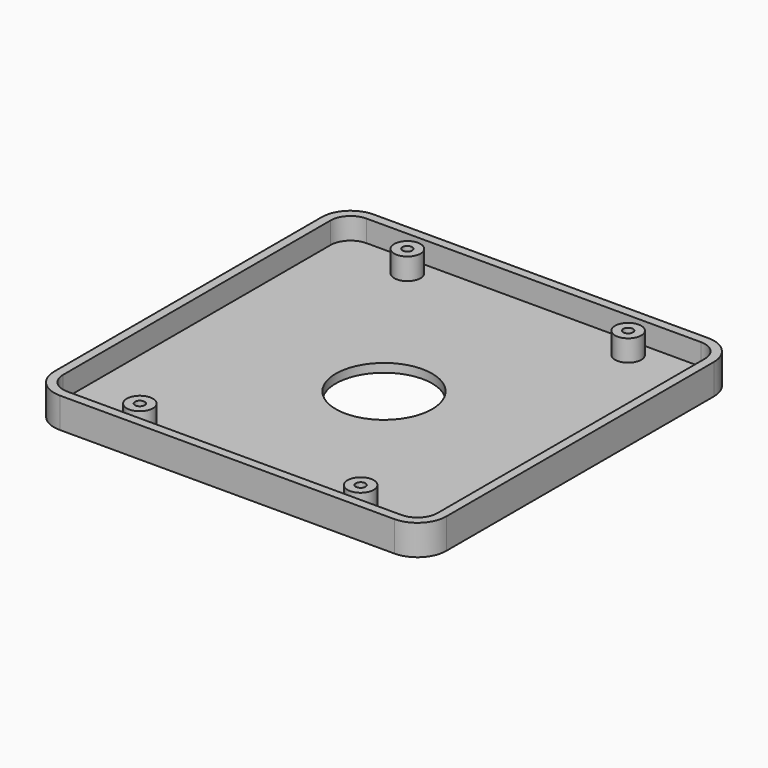
from build123d import *

# Parameters (mm, degrees)
F0_R     = 2.725
F0_R_2   = 10
F0_R_3   = 1
F1_DEPTH = 1.8
F2_DEPTH = 6.3
F3_DEPTH = 6.3
F4_DEPTH = 6.25


with BuildPart() as f1:
    # F0 (on Top) → F1 (new body)
    with BuildSketch(Plane.XY):
        with BuildLine():
            Line((38.875, -34.725), (38.875, 34.725))
            ThreePointArc((38.875, 34.725), (37.659493, 37.659493), (34.725, 38.875))
            Line((34.725, 38.875), (-34.725, 38.875))
            ThreePointArc((-34.725, 38.875), (-37.659493, 37.659493), (-38.875, 34.725))
            Line((-38.875, 34.725), (-38.875, -34.725))
            ThreePointArc((-38.875, -34.725), (-37.659493, -37.659493), (-34.725, -38.875))
            Line((-34.725, -38.875), (34.725, -38.875))
            ThreePointArc((34.725, -38.875), (37.659493, -37.659493), (38.875, -34.725))
        make_face()
        with Locations((-22.925, -34.725)):
            Circle(F0_R, mode=Mode.SUBTRACT)
        with Locations((22.925, -34.725)):
            Circle(F0_R, mode=Mode.SUBTRACT)
        with Locations((-22.925, 34.725)):
            Circle(F0_R, mode=Mode.SUBTRACT)
        Circle(F0_R_2, mode=Mode.SUBTRACT)
        with Locations((22.925, 34.725)):
            Circle(F0_R, mode=Mode.SUBTRACT)
        with Locations((-22.925, 34.725)):
            Circle(F0_R)
        with Locations((-22.925, 34.725)):
            Circle(F0_R_3, mode=Mode.SUBTRACT)
        with Locations((-22.925, 34.725)):
            Circle(F0_R_3)
        with Locations((22.925, -34.725)):
            Circle(F0_R)
        with Locations((22.925, -34.725)):
            Circle(F0_R_3, mode=Mode.SUBTRACT)
        with Locations((22.925, -34.725)):
            Circle(F0_R_3)
        with Locations((-22.925, -34.725)):
            Circle(F0_R)
        with Locations((-22.925, -34.725)):
            Circle(F0_R_3, mode=Mode.SUBTRACT)
        with Locations((-22.925, -34.725)):
            Circle(F0_R_3)
        with Locations((22.925, 34.725)):
            Circle(F0_R)
        with Locations((22.925, 34.725)):
            Circle(F0_R_3, mode=Mode.SUBTRACT)
        with Locations((22.925, 34.725)):
            Circle(F0_R_3)
    extrude(amount=F1_DEPTH)

    # F0 (on Top) → F2 (join)
    with BuildSketch(Plane.XY):
        with BuildLine():
            Line((-34.725, -40.725), (34.725, -40.725))
            ThreePointArc((34.725, -40.725), (38.967641, -38.967641), (40.725, -34.725))
            Line((40.725, -34.725), (40.725, 34.725))
            ThreePointArc((40.725, 34.725), (38.967641, 38.967641), (34.725, 40.725))
            Line((34.725, 40.725), (-34.725, 40.725))
            ThreePointArc((-34.725, 40.725), (-38.967641, 38.967641), (-40.725, 34.725))
            Line((-40.725, 34.725), (-40.725, -34.725))
            ThreePointArc((-40.725, -34.725), (-38.967641, -38.967641), (-34.725, -40.725))
        make_face()
        with BuildLine():
            ThreePointArc((34.725, 38.875), (37.659493, 37.659493), (38.875, 34.725))
            Line((38.875, 34.725), (38.875, -34.725))
            ThreePointArc((38.875, -34.725), (37.659493, -37.659493), (34.725, -38.875))
            Line((34.725, -38.875), (-34.725, -38.875))
            ThreePointArc((-34.725, -38.875), (-37.659493, -37.659493), (-38.875, -34.725))
            Line((-38.875, -34.725), (-38.875, 34.725))
            ThreePointArc((-38.875, 34.725), (-37.659493, 37.659493), (-34.725, 38.875))
            Line((-34.725, 38.875), (34.725, 38.875))
        make_face(mode=Mode.SUBTRACT)
    extrude(amount=F2_DEPTH)

    # F0 (on Top) → F3 (join)
    with BuildSketch(Plane.XY):
        with Locations((-22.925, 34.725)):
            Circle(F0_R)
        with Locations((-22.925, 34.725)):
            Circle(F0_R_3, mode=Mode.SUBTRACT)
    extrude(amount=F3_DEPTH)

    # F0 (on Top) → F4 (join)
    with BuildSketch(Plane.XY):
        with Locations((22.925, 34.725)):
            Circle(F0_R)
        with Locations((22.925, 34.725)):
            Circle(F0_R_3, mode=Mode.SUBTRACT)
        with Locations((22.925, -34.725)):
            Circle(F0_R)
        with Locations((22.925, -34.725)):
            Circle(F0_R_3, mode=Mode.SUBTRACT)
        with Locations((-22.925, -34.725)):
            Circle(F0_R)
        with Locations((-22.925, -34.725)):
            Circle(F0_R_3, mode=Mode.SUBTRACT)
    extrude(amount=F4_DEPTH)


solid = f1.part
